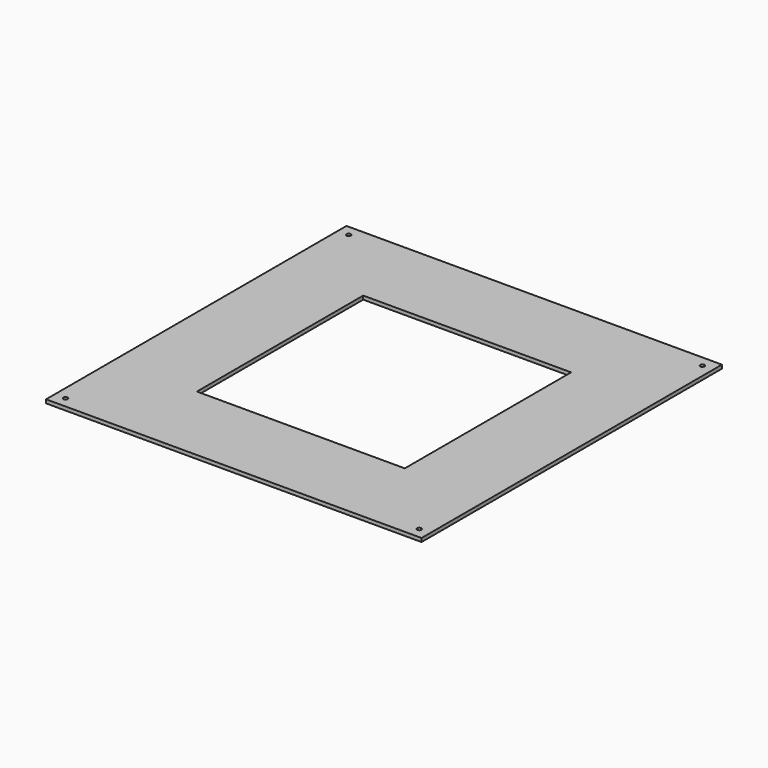
from build123d import *

# Parameters (mm, degrees)
F0_W     = 660.4
F0_H     = 660.4
F1_DEPTH = 6.35
F2_W     = 365.626764
F2_H     = 365.626764
F2_R     = 3.81
F3_DEPTH = 25.4


with BuildPart() as f1:
    # F0 (on Top) → F1 (new body)
    with BuildSketch(Plane.XY):
        Rectangle(F0_W, F0_H)
        with BuildLine():
            ThreePointArc((-29.292531, 123.575676), (78.768168, 99.622165), (127, 0))
            ThreePointArc((127, 0), (108.090653, -66.673913), (56.993532, -113.493336))
            ThreePointArc((56.993532, -113.493336), (73.573161, -123.372435), (80.090758, -141.538382))
            ThreePointArc((80.090758, -141.538382), (41.989428, -168.47868), (29.292531, -123.575676))
            ThreePointArc((29.292531, -123.575676), (-5.539662, -126.879124), (-39.951394, -120.552421))
            ThreePointArc((-39.951394, -120.552421), (-36.325418, -128.167748), (-35.080608, -136.509891))
            ThreePointArc((-35.080608, -136.509891), (-82.766395, -157.753913), (-66.668251, -108.094146))
            ThreePointArc((-66.668251, -108.094146), (-93.634222, -85.799956), (-113.493336, -56.993532))
            ThreePointArc((-113.493336, -56.993532), (-168.390099, -61.288984), (-123.575676, -29.292531))
            ThreePointArc((-123.575676, -29.292531), (-126.879124, 5.539662), (-120.552421, 39.951394))
            ThreePointArc((-120.552421, 39.951394), (-162.407637, 75.731925), (-108.094146, 66.668251))
            ThreePointArc((-108.094146, 66.668251), (-85.799956, 93.634222), (-56.993532, 113.493336))
            ThreePointArc((-56.993532, 113.493336), (-69.681705, 163.595785), (-22.940758, 141.538382))
            ThreePointArc((-22.940758, 141.538382), (-24.57546, 132.012052), (-29.292531, 123.575676))
        make_face(mode=Mode.SUBTRACT)
    extrude(amount=F1_DEPTH)

    # F2 (on face) → F3 (cut)
    with BuildSketch(Plane.XY.offset(6.35)):
        Rectangle(F2_W, F2_H)
        with Locations((-311.15, 311.15)):
            Circle(F2_R)
        with Locations((-311.15, -311.15)):
            Circle(F2_R)
        with Locations((311.15, 311.15)):
            Circle(F2_R)
        with Locations((311.15, -311.15)):
            Circle(F2_R)
    extrude(amount=-F3_DEPTH, mode=Mode.SUBTRACT)


solid = f1.part
